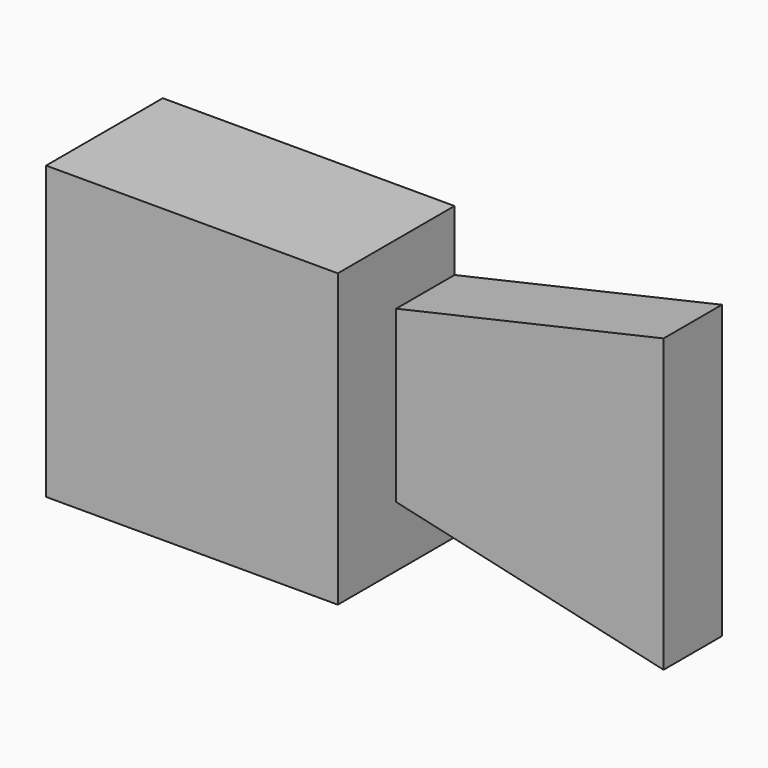
from build123d import *

# Parameters (mm, degrees)
F0_W     = 76.2
F0_H     = 76.2
F1_DEPTH = 38.1
F2_W     = 19.05
F2_H     = 44.45
F3_DEPTH = 69.85
F5_DEPTH = 19.05


with BuildPart() as f1:
    # F0 (on Front) → F1 (new body)
    with BuildSketch(Plane.XZ):
        with Locations((-26.431875, 3.83165)):
            Rectangle(F0_W, F0_H)
    extrude(amount=F1_DEPTH)

    # F2 (on face) → F3 (join)
    with BuildSketch(Plane.YZ.offset(11.668125)):
        with Locations((-9.525, 3.83165)):
            Rectangle(F2_W, F2_H)
    extrude(amount=F3_DEPTH)

    # F4 (on face) → F5 (join)
    with BuildSketch(Plane.XZ.offset(19.05)):
        Polygon((81.518125, 41.93165), (11.668125, 26.05665), (81.518125, 26.05665), align=None)
        Polygon((81.518125, -18.39335), (11.668125, -18.39335), (81.518125, -34.26835), align=None)
    extrude(amount=-F5_DEPTH)


solid = f1.part
